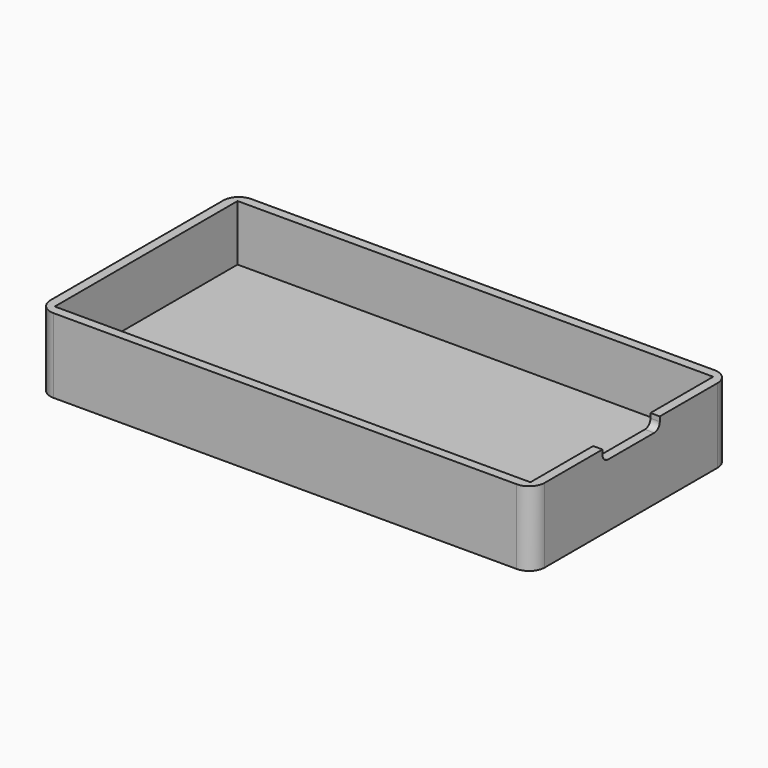
from build123d import *

# Parameters (mm, degrees)
F0_W      = 63.6
F0_H      = 31.8
F1_DEPTH  = 9.6
F2_W      = 61.2
F2_H      = 29.4
F3_DEPTH  = 2
F4_R      = 2
F6_W      = 61.2
F6_H      = 29.4
F7_DEPTH  = 7.2
F8_R      = 3.25685
F10_DEPTH = 2.4
F9_R      = 2.4
F11_DEPTH = 2
F13_DEPTH = 32


with BuildPart() as f1:
    # F0 (on Top) → F1 (new body)
    with BuildSketch(Plane.XY):
        Rectangle(F0_W, F0_H)
    extrude(amount=F1_DEPTH)

    # F2 (on Top) → F3 (cut)
    with BuildSketch(Plane.XY):
        Rectangle(F2_W, F2_H)
    extrude(amount=F3_DEPTH, mode=Mode.SUBTRACT)

    # F4
    f4_edges = [f1.edges().sort_by_distance(p)[0] for p in [
        (-31.8, -15.9, 4.8),
        (-31.8, 15.9, 4.8),
        (31.8, 15.9, 4.8),
        (31.8, -15.9, 4.8),
    ]]
    fillet(f4_edges, radius=F4_R)

    # F6 (on offset) → F7 (cut)
    with BuildSketch(Plane.XY.offset(9.6)):
        Rectangle(F6_W, F6_H)
    extrude(amount=-F7_DEPTH, mode=Mode.SUBTRACT)

    # F8 (on Top) → F10 (join)
    with BuildSketch(Plane.XY):
        with Locations((-23.9, -8)):
            Circle(F8_R)
        with Locations((-23.9, 0)):
            Circle(F8_R)
        with Locations((-23.9, 8)):
            Circle(F8_R)
        with Locations((-15.900151, -7.950921)):
            Circle(F8_R)
        with Locations((-15.900151, 0.049079)):
            Circle(F8_R)
        with Locations((-15.900151, 8.049079)):
            Circle(F8_R)
        with Locations((-7.900301, -7.901842)):
            Circle(F8_R)
        with Locations((-7.900301, 0.098158)):
            Circle(F8_R)
        with Locations((-7.900301, 8.098158)):
            Circle(F8_R)
        with Locations((0.099548, -7.852764)):
            Circle(F8_R)
        with Locations((0.099548, 0.147236)):
            Circle(F8_R)
        with Locations((0.099548, 8.147236)):
            Circle(F8_R)
        with Locations((8.099398, -7.803685)):
            Circle(F8_R)
        with Locations((8.099398, 0.196315)):
            Circle(F8_R)
        with Locations((8.099398, 8.196315)):
            Circle(F8_R)
        with Locations((16.099247, -7.754606)):
            Circle(F8_R)
        with Locations((16.099247, 0.245394)):
            Circle(F8_R)
        with Locations((16.099247, 8.245394)):
            Circle(F8_R)
        with Locations((24.099097, -7.705527)):
            Circle(F8_R)
        with Locations((24.099097, 0.294473)):
            Circle(F8_R)
        with Locations((24.099097, 8.294473)):
            Circle(F8_R)
    extrude(amount=F10_DEPTH)

    # F9 (on Top) → F11 (cut)
    with BuildSketch(Plane.XY):
        with Locations((-23.9, -8)):
            Circle(F9_R)
        with Locations((-23.9, 0)):
            Circle(F9_R)
        with Locations((-23.9, 8)):
            Circle(F9_R)
        with Locations((-15.9, -8)):
            Circle(F9_R)
        with Locations((-15.9, 0)):
            Circle(F9_R)
        with Locations((-15.9, 8)):
            Circle(F9_R)
        with Locations((-7.9, -8)):
            Circle(F9_R)
        with Locations((-7.9, 0)):
            Circle(F9_R)
        with Locations((-7.9, 8)):
            Circle(F9_R)
        with Locations((0.1, -8)):
            Circle(F9_R)
        with Locations((0.1, 0)):
            Circle(F9_R)
        with Locations((0.1, 8)):
            Circle(F9_R)
        with Locations((8.1, -8)):
            Circle(F9_R)
        with Locations((8.1, 0)):
            Circle(F9_R)
        with Locations((8.1, 8)):
            Circle(F9_R)
        with Locations((16.1, -8)):
            Circle(F9_R)
        with Locations((16.1, 0)):
            Circle(F9_R)
        with Locations((16.1, 8)):
            Circle(F9_R)
        with Locations((24.1, -8)):
            Circle(F9_R)
        with Locations((24.1, 0)):
            Circle(F9_R)
        with Locations((24.1, 8)):
            Circle(F9_R)
    extrude(amount=F11_DEPTH, mode=Mode.SUBTRACT)

    # F12 (on Right) → F13 (cut)
    with BuildSketch(Plane.YZ):
        with BuildLine():
            Line((3.704295, 11.1), (-3.715705, 11.1))
            ThreePointArc((-3.715705, 11.1), (-4.352101, 10.836396), (-4.615705, 10.2))
            Line((-4.615705, 10.2), (-4.615705, 9))
            ThreePointArc((-4.615705, 9), (-4.352101, 8.363604), (-3.715705, 8.1))
            Line((-3.715705, 8.1), (3.704295, 8.1))
            ThreePointArc((3.704295, 8.1), (4.340691, 8.363604), (4.604295, 9))
            Line((4.604295, 9), (4.604295, 10.2))
            ThreePointArc((4.604295, 10.2), (4.340691, 10.836396), (3.704295, 11.1))
        make_face()
    extrude(amount=F13_DEPTH, mode=Mode.SUBTRACT)


solid = f1.part
